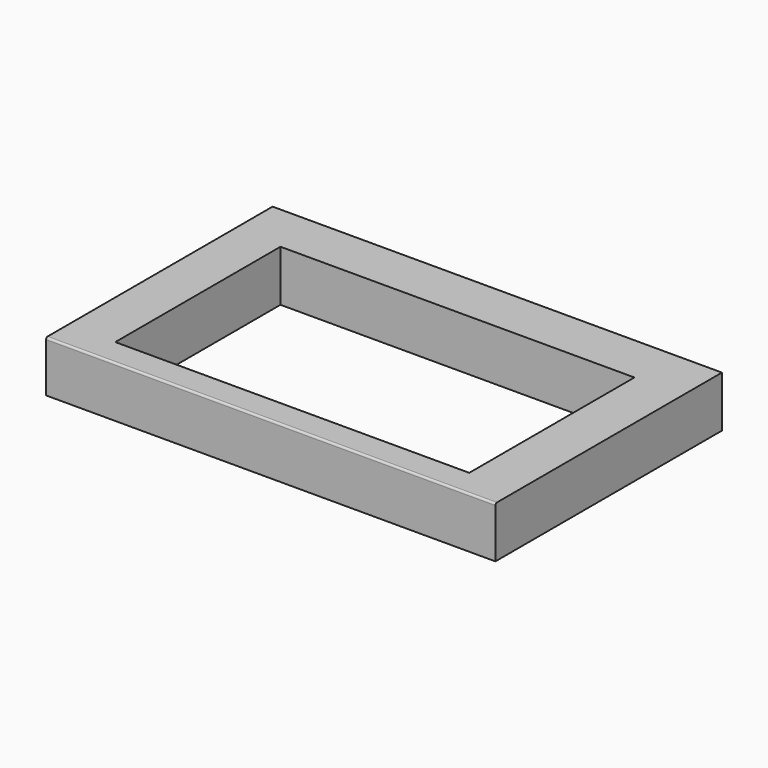
from build123d import *

# Parameters (mm, degrees)
BOX_W        = 228.5
BOX_H        = 144
BOX_DEPTH    = 26
SKETCH001_W  = 180
SKETCH001_H  = 105
POCKET_DEPTH = 26.001
FILLET_R     = 1


with BuildPart() as part:
    # Box → Box (new body)
    with BuildSketch(Plane.XY):
        with Locations((114.25, 72)):
            Rectangle(BOX_W, BOX_H)
    extrude(amount=BOX_DEPTH)

    # Sketch001 (on Face5 of Box) → Pocket (cut, through all)
    with BuildSketch(Plane(origin=(0, 0, 0), x_dir=(1, 0, 0), z_dir=(0, 0, -1))):
        with Locations((114, -66.5)):
            Rectangle(SKETCH001_W, SKETCH001_H)
    extrude(amount=-POCKET_DEPTH, mode=Mode.SUBTRACT)

    # Fillet
    fillet_edges = [part.edges().sort_by_distance(p)[0] for p in [
        (114.25, 0, 26),
    ]]
    fillet(fillet_edges, radius=FILLET_R)


solid = part.part
